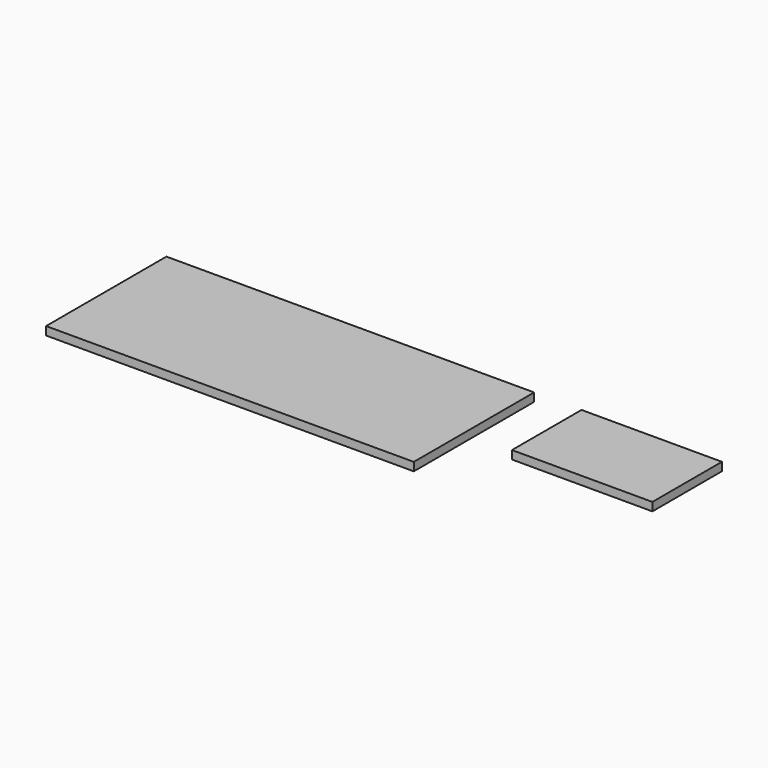
from build123d import *

# Parameters (mm, degrees)
F0_W     = 13.97
F0_H     = 57.15
F0_W_2   = 8.899627
F0_H_2   = 33.02
F0_W_3   = 8.89
F1_DEPTH = 3.175
F2_DEPTH = 3.175


with BuildPart() as f1:
    # F0 (on Top) → F1 (new body)
    with BuildSketch(Plane.XY):
        with Locations((-89.748095, 28.575)):
            Rectangle(F0_W, F0_H)
        with Locations((-75.778095, 28.575)):
            Rectangle(F0_W, F0_H)
        with Locations((-61.808095, 28.575)):
            Rectangle(F0_W, F0_H)
        with Locations((-47.838095, 28.575)):
            Rectangle(F0_W, F0_H)
        with Locations((-33.868095, 28.575)):
            Rectangle(F0_W, F0_H)
        with Locations((-19.898095, 28.575)):
            Rectangle(F0_W, F0_H)
        with Locations((-5.928095, 28.575)):
            Rectangle(F0_W, F0_H)
        with Locations((8.041905, 28.575)):
            Rectangle(F0_W, F0_H)
        with Locations((22.011905, 28.575)):
            Rectangle(F0_W, F0_H)
        with Locations((35.981905, 28.575)):
            Rectangle(F0_W, F0_H)
        with Locations((65.410607, 40.64)):
            Rectangle(F0_W_2, F0_H_2)
        with Locations((74.30542, 40.64)):
            Rectangle(F0_W_3, F0_H_2)
        with Locations((83.19542, 40.64)):
            Rectangle(F0_W_3, F0_H_2)
        with Locations((92.08542, 40.64)):
            Rectangle(F0_W_3, F0_H_2)
        with Locations((100.97542, 40.64)):
            Rectangle(F0_W_3, F0_H_2)
        with Locations((109.86542, 40.64)):
            Rectangle(F0_W_3, F0_H_2)
    extrude(amount=F1_DEPTH)


with BuildPart() as f2:
    # F0 (on Top) → F2 (new body)
    with BuildSketch(Plane.XY):
        with Locations((-89.748095, 28.575)):
            Rectangle(F0_W, F0_H)
        with Locations((-75.778095, 28.575)):
            Rectangle(F0_W, F0_H)
        with Locations((-61.808095, 28.575)):
            Rectangle(F0_W, F0_H)
        with Locations((-47.838095, 28.575)):
            Rectangle(F0_W, F0_H)
        with Locations((-33.868095, 28.575)):
            Rectangle(F0_W, F0_H)
        with Locations((-19.898095, 28.575)):
            Rectangle(F0_W, F0_H)
        with Locations((-5.928095, 28.575)):
            Rectangle(F0_W, F0_H)
        with Locations((8.041905, 28.575)):
            Rectangle(F0_W, F0_H)
        with Locations((22.011905, 28.575)):
            Rectangle(F0_W, F0_H)
        with Locations((35.981905, 28.575)):
            Rectangle(F0_W, F0_H)
        with Locations((65.410607, 40.64)):
            Rectangle(F0_W_2, F0_H_2)
        with Locations((74.30542, 40.64)):
            Rectangle(F0_W_3, F0_H_2)
        with Locations((83.19542, 40.64)):
            Rectangle(F0_W_3, F0_H_2)
        with Locations((92.08542, 40.64)):
            Rectangle(F0_W_3, F0_H_2)
        with Locations((100.97542, 40.64)):
            Rectangle(F0_W_3, F0_H_2)
        with Locations((109.86542, 40.64)):
            Rectangle(F0_W_3, F0_H_2)
    extrude(amount=F2_DEPTH)


solid = Compound([f1.part, f2.part])
